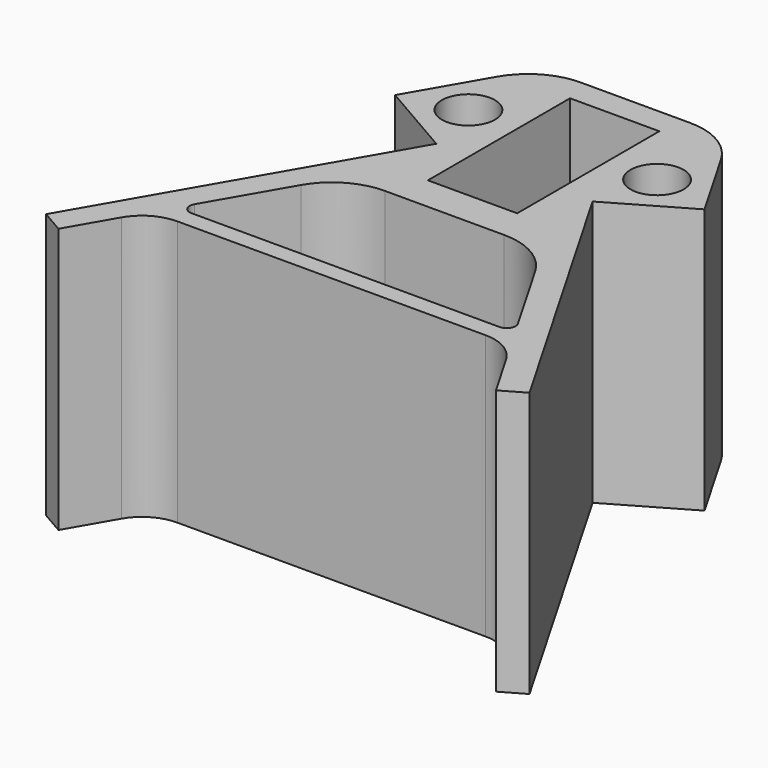
from build123d import *

# Parameters (mm, degrees)
F0_W     = 20.2
F0_H     = 40.2
F0_R     = 6
F1_DEPTH = 60


with BuildPart() as f1:
    # F0 (on Top) → F1 (new body)
    with BuildSketch(Plane.XY):
        with BuildLine():
            Line((-25.330127, 18.5), (-35, 1.751289))
            Line((-35, 1.751289), (-17.679492, -8.248711))
            Line((-17.679492, -8.248711), (-54.679492, -72.334591))
            Line((-54.679492, -72.334591), (-49.48334, -75.334591))
            Line((-49.48334, -75.334591), (-43.51666, -65))
            ThreePointArc((-43.51666, -65), (-39.856406, -61.339746), (-34.856406, -60))
            Line((-34.856406, -60), (34.856406, -60))
            ThreePointArc((34.856406, -60), (39.856406, -61.339746), (43.51666, -65))
            Line((43.51666, -65), (49.48334, -75.334591))
            Line((49.48334, -75.334591), (54.679492, -72.334591))
            Line((54.679492, -72.334591), (17.679492, -8.248711))
            Line((17.679492, -8.248711), (35, 1.751289))
            Line((35, 1.751289), (25.330127, 18.5))
            ThreePointArc((25.330127, 18.5), (19.839746, 23.990381), (12.339746, 26))
            Line((12.339746, 26), (-12.339746, 26))
            ThreePointArc((-12.339746, 26), (-19.839746, 23.990381), (-25.330127, 18.5))
        make_face()
        with BuildLine():
            ThreePointArc((-26.484828, -35.5), (-20.994447, -30.009619), (-13.494447, -28))
            Line((-13.494447, -28), (13.494447, -28))
            ThreePointArc((13.494447, -28), (20.994447, -30.009619), (26.484828, -35.5))
            Line((26.484828, -35.5), (36.588457, -53))
            ThreePointArc((36.588457, -53), (36.588457, -55), (34.856406, -56))
            Line((34.856406, -56), (-34.856406, -56))
            ThreePointArc((-34.856406, -56), (-36.588457, -55), (-36.588457, -53))
            Line((-36.588457, -53), (-26.484828, -35.5))
        make_face(mode=Mode.SUBTRACT)
        Rectangle(F0_W, F0_H, mode=Mode.SUBTRACT)
        with Locations((-21.339746, 5.411543)):
            Circle(F0_R, mode=Mode.SUBTRACT)
        with Locations((21.339746, 5.411543)):
            Circle(F0_R, mode=Mode.SUBTRACT)
    extrude(amount=F1_DEPTH)


solid = f1.part
